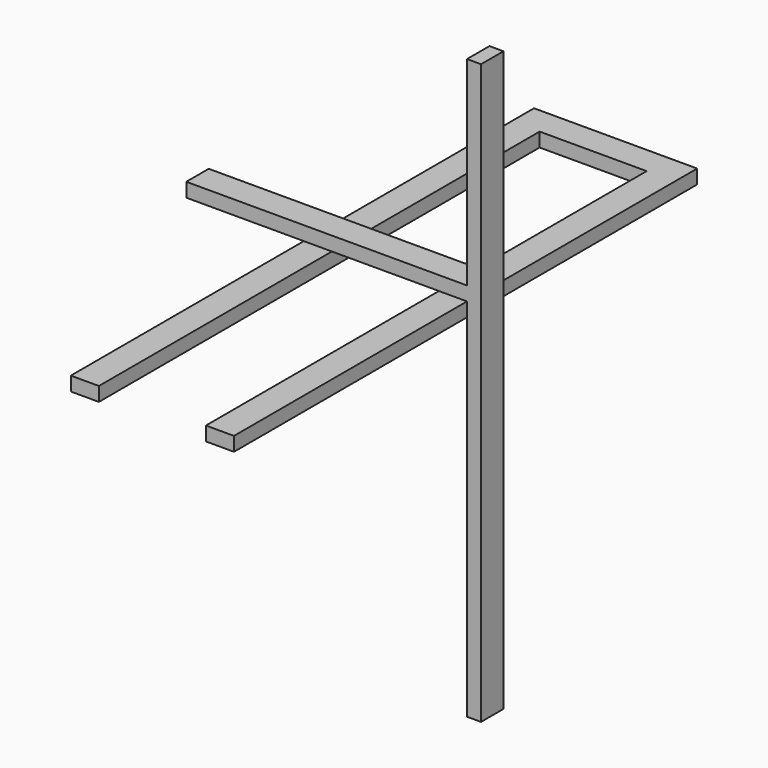
from build123d import *

# Parameters (mm, degrees)
F0_W     = 80
F0_H     = 1650
F1_DEPTH = 40
F2_W     = 80
F2_H     = 40
F3_DEPTH = 800
F5_DEPTH = 40


with BuildPart() as f1:
    # F0 (on Right) → F1 (new body)
    with BuildSketch(Plane.YZ):
        with Locations((40, 825)):
            Rectangle(F0_W, F0_H)
    extrude(amount=-F1_DEPTH)

    # F2 (on face) → F3 (join)
    with BuildSketch(Plane(origin=(-40, 0, 0), x_dir=(0, -1, 0), z_dir=(-1, 0, 0))):
        with Locations((-40, 1062)):
            Rectangle(F2_W, F2_H)
    extrude(amount=F3_DEPTH)

    # F4 (on face) → F5 (join)
    with BuildSketch(Plane(origin=(0, 0, 1042), x_dir=(1, 0, 0), z_dir=(0, 0, -1))):
        Polygon((-40, -820), (-40, 830), (-120, 830), (-120, -740), (-425, -740), (-425, 830), (-505, 830), (-505, -820), align=None)
    extrude(amount=F5_DEPTH)


solid = f1.part
